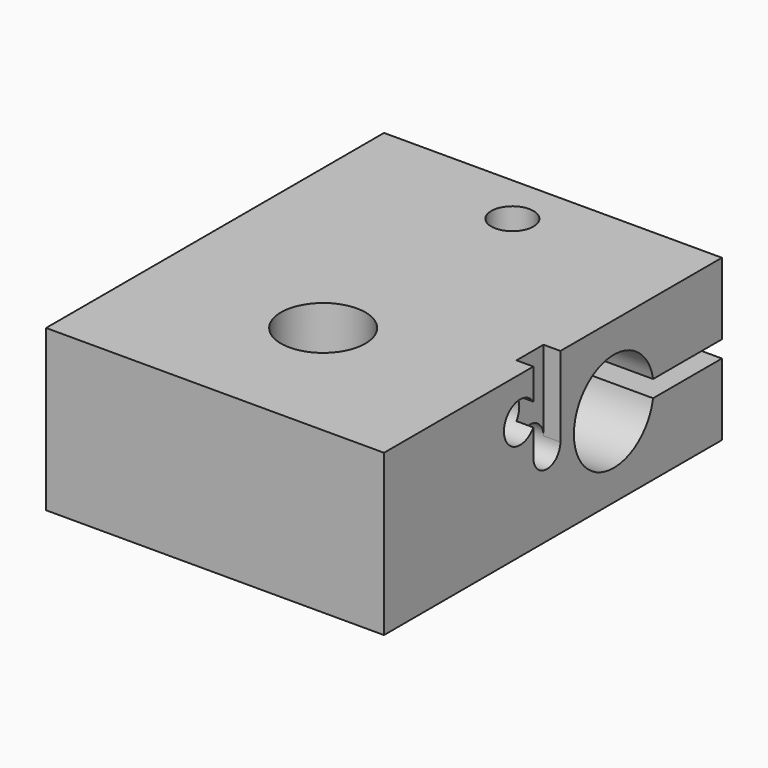
from build123d import *

# Parameters (mm, degrees)
F0_W     = 20
F0_H     = 25
F0_R     = 2.5
F0_R_2   = 1.25
F1_DEPTH = 4.75
F3_DEPTH = 20.001
F4_R     = 1.7
F5_DEPTH = 4.25
F6_R     = 1
F6_R_2   = 1.190625
F7_DEPTH = 7
F8_W     = 2
F8_H     = 4.7499998814
F9_DEPTH = 1


with BuildPart() as f1:
    # F0 (on Top) → F1 (new body, symmetric)
    with BuildSketch(Plane.XY):
        Rectangle(F0_W, F0_H)
        with Locations((0, -4.5)):
            Circle(F0_R, mode=Mode.SUBTRACT)
        with Locations((0, 9.5)):
            Circle(F0_R_2, mode=Mode.SUBTRACT)
    extrude(amount=F1_DEPTH, both=True)

    # F2 (on face) → F3 (cut, through all)
    with BuildSketch(Plane.YZ.offset(10)):
        with BuildLine():
            ThreePointArc((7.407318352, -0.5), (7.43931022, -0.2509092082), (7.45, 0))
            ThreePointArc((7.45, 0), (7.43931022, 0.2509092082), (7.407318352, 0.5))
            Line((7.407318352, 0.5), (7.407318352, -0.5))
        make_face()
        with BuildLine():
            ThreePointArc((7.407318352, 0.5), (7.43931022, 0.2509092082), (7.45, 0))
            ThreePointArc((7.45, 0), (7.43931022, -0.2509092082), (7.407318352, -0.5))
            Line((7.407318352, -0.5), (12.5, -0.5))
            Line((12.5, -0.5), (12.5, 0.5))
            Line((12.5, 0.5), (7.407318352, 0.5))
        make_face()
        with BuildLine():
            Line((7.407318352, -0.5), (7.407318352, 0.5))
            ThreePointArc((7.407318352, 0.5), (1.55, 0), (7.407318352, -0.5))
        make_face()
    extrude(amount=-F3_DEPTH, mode=Mode.SUBTRACT)

    # F4 (on face) → F5 (cut, through all)
    with BuildSketch(Plane(origin=(0, 0, -4.75), x_dir=(1, 0, 0), z_dir=(0, 0, -1))):
        with Locations((0, -9.5)):
            Circle(F4_R)
    extrude(amount=-F5_DEPTH, mode=Mode.SUBTRACT)

    # F6 (on face) → F7 (cut)
    with BuildSketch(Plane.YZ.offset(10)):
        with Locations((-0.45, 0)):
            Circle(F6_R)
        with Locations((-2.4343134833, 2.25)):
            Circle(F6_R_2)
    extrude(amount=-F7_DEPTH, mode=Mode.SUBTRACT)

    # F8 (on face) → F9 (cut)
    with BuildSketch(Plane.YZ.offset(10)):
        with Locations((-0.45, 2.3750000593)):
            Rectangle(F8_W, F8_H)
    extrude(amount=-F9_DEPTH, mode=Mode.SUBTRACT)


solid = f1.part
